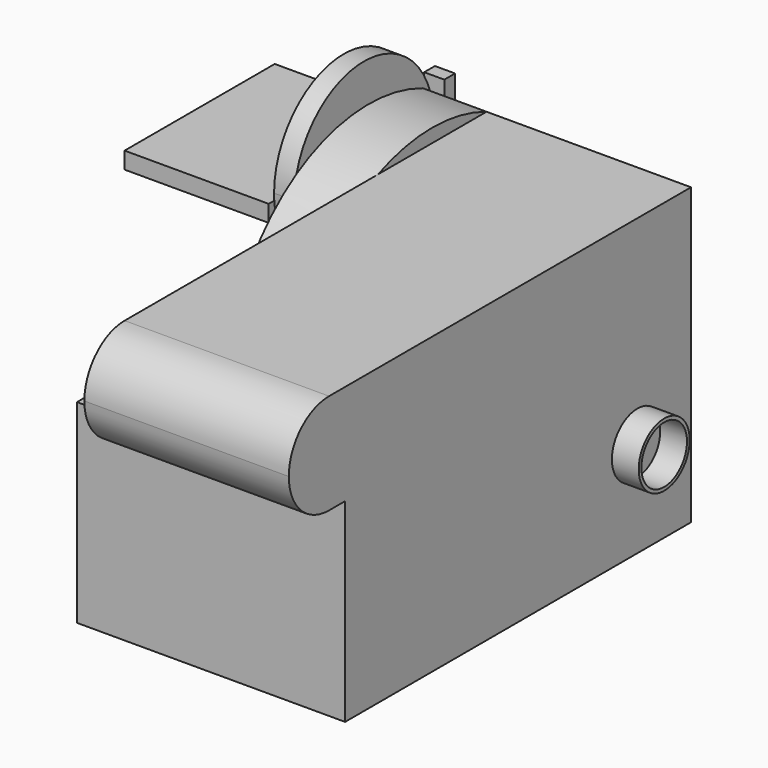
from build123d import *

# Parameters (mm, degrees)
F0_W      = 254
F0_H      = 409.575
F1_DEPTH  = 184.15
F2_W      = 193.675
F2_H      = 476.25
F3_DEPTH  = 95.25
F5_R      = 30.1625
F6_DEPTH  = 25.4
F7_R      = 26.9875
F8_DEPTH  = 25.4
F9_R      = 82.55
F10_DEPTH = 19.05
F11_W     = 177.8
F11_H     = 15.875
F12_DEPTH = 136.525
F14_DEPTH = 60.325
F16_DEPTH = 193.675
F17_R     = 9.525
F18_DEPTH = 38.1
F19_W     = 19.05
F19_H     = 63.5
F20_DEPTH = 12.7


with BuildPart() as f1:
    # F0 (on Top) → F1 (new body)
    with BuildSketch(Plane.XY):
        Rectangle(F0_W, F0_H)
    extrude(amount=F1_DEPTH)

    # F2 (on face) → F3 (join)
    with BuildSketch(Plane.XY.offset(184.15)):
        with Locations((30.1625, -33.3375)):
            Rectangle(F2_W, F2_H)
    extrude(amount=F3_DEPTH)

    # F5 (on face) → F6 (join)
    with BuildSketch(Plane.YZ.offset(127)):
        with Locations((141.2875, 90.4875)):
            Circle(F5_R)
    extrude(amount=F6_DEPTH)

    # F7 (on face) → F8 (cut)
    with BuildSketch(Plane.YZ.offset(152.4)):
        with Locations((141.2875, 90.4875)):
            Circle(F7_R)
    extrude(amount=-F8_DEPTH, mode=Mode.SUBTRACT)

    # F9 (on face) → F10 (join)
    with BuildSketch(Plane(origin=(-127, 0, 0), x_dir=(0, -1, 0), z_dir=(-1, 0, 0))):
        with Locations((-134.9375, 247.65)):
            Circle(F9_R)
    extrude(amount=F10_DEPTH)

    # F11 (on face) → F12 (join)
    with BuildSketch(Plane(origin=(-146.05, 0, 0), x_dir=(0, -1, 0), z_dir=(-1, 0, 0))):
        with Locations((-134.9375, 233.3625)):
            Rectangle(F11_W, F11_H)
    extrude(amount=F12_DEPTH)

    # F13 (on face) → F14 (join, through all)
    with BuildSketch(Plane(origin=(-66.675, 0, 0), x_dir=(0, -1, 0), z_dir=(-1, 0, 0))):
        with BuildLine():
            Line((-204.7875, 279.4), (-204.7875, 184.15))
            Line((-204.7875, 184.15), (15.268247, 184.15))
            ThreePointArc((15.268247, 184.15), (-74.48391, 278.617919), (-204.7875, 279.4))
        make_face()
    extrude(amount=F14_DEPTH)

    # F15 (on face) → F16 (cut, through all)
    with BuildSketch(Plane(origin=(-66.675, 0, 0), x_dir=(0, -1, 0), z_dir=(-1, 0, 0))):
        with BuildLine():
            ThreePointArc((223.8375, 279.4), (257.51346, 265.45096), (271.4625, 231.775))
            Line((271.4625, 231.775), (271.4625, 279.4))
            Line((271.4625, 279.4), (223.8375, 279.4))
        make_face()
        with BuildLine():
            ThreePointArc((271.4625, 231.775), (257.51346, 198.09904), (223.8375, 184.15))
            Line((223.8375, 184.15), (271.4625, 184.15))
            Line((271.4625, 184.15), (271.4625, 231.775))
        make_face()
    extrude(amount=-F16_DEPTH, mode=Mode.SUBTRACT)

    # F17 (on face) → F18 (join)
    with BuildSketch(Plane(origin=(0, 204.7875, 0), x_dir=(-1, 0, 0), z_dir=(0, 1, 0))):
        with Locations((136.525, 212.725)):
            Circle(F17_R)
    extrude(amount=F18_DEPTH)

    # F19 (on face) → F20 (join)
    with BuildSketch(Plane(origin=(0, 242.8875, 0), x_dir=(-1, 0, 0), z_dir=(0, 1, 0))):
        with Locations((136.525, 244.475)):
            Rectangle(F19_W, F19_H)
    extrude(amount=-F20_DEPTH)


solid = f1.part
